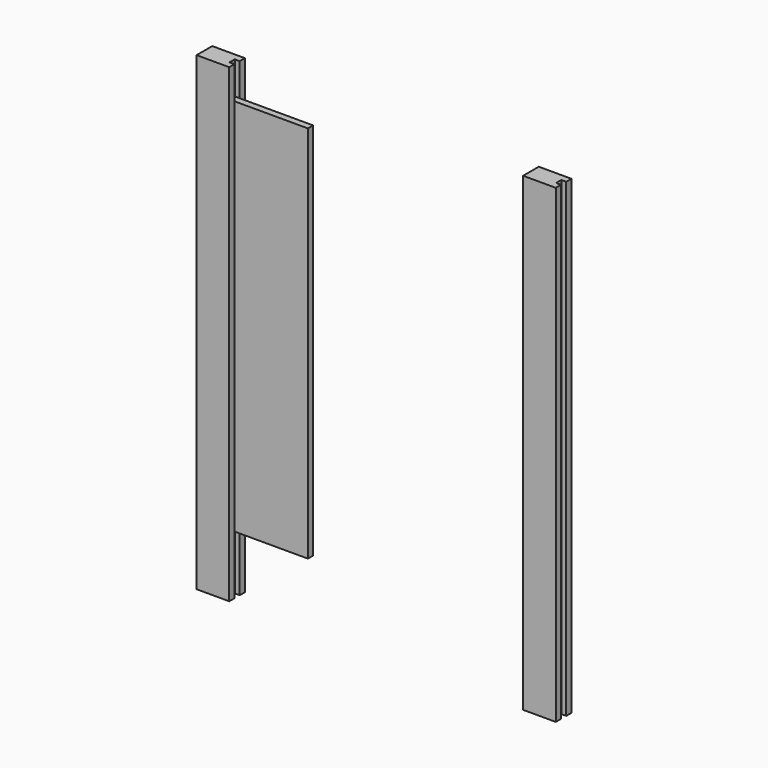
from build123d import *

# Parameters (mm, degrees)
F1_DEPTH = 1828.8
F3_W     = 152.4
F3_H     = 25.4
F4_DEPTH = 1473.2
F6_W     = 19.05
F6_H     = 12.7
F7_DEPTH = 2540
F9_DEPTH = 1473.2


with BuildPart() as f1:
    # F0 (on Top) → F1 (new body)
    with BuildSketch(Plane.XY):
        Polygon((46.075293, 38.1), (-80.924707, 38.1), (-80.924707, -38.1), (46.075293, -38.1), (46.075293, -12.7), (27.025293, -12.7), (27.025293, 12.7), (46.075293, 12.7), align=None)
    extrude(amount=F1_DEPTH)


with BuildPart() as f4:
    # F3 (on offset) → F4 (new body)
    with BuildSketch(Plane.XY.offset(228.6)):
        with Locations((103.225293, 0)):
            Rectangle(F3_W, F3_H)
    extrude(amount=F4_DEPTH)

    # F6 (on face) → F7 (cut)
    with BuildSketch(Plane.XY.offset(1701.8)):
        with Locations((169.900293, 0)):
            Rectangle(F6_W, F6_H)
    extrude(amount=-F7_DEPTH, mode=Mode.SUBTRACT)

    # F8 (on offset) → F9 (join)
    with BuildSketch(Plane.XY.offset(228.6)):
        Polygon((179.425293, 6.35), (160.375293, 6.35), (160.375293, -6.35), (179.425293, -6.35), (179.425293, -12.7), (331.825293, -12.7), (331.825293, 12.7), (179.425293, 12.7), align=None)
    extrude(amount=F9_DEPTH)


with BuildPart() as f5_1:
    # F5: copy of F1
    add(f1.part.moved(Location((1270, 0, 0))))


solid = Compound([f1.part, f4.part, f5_1.part])
